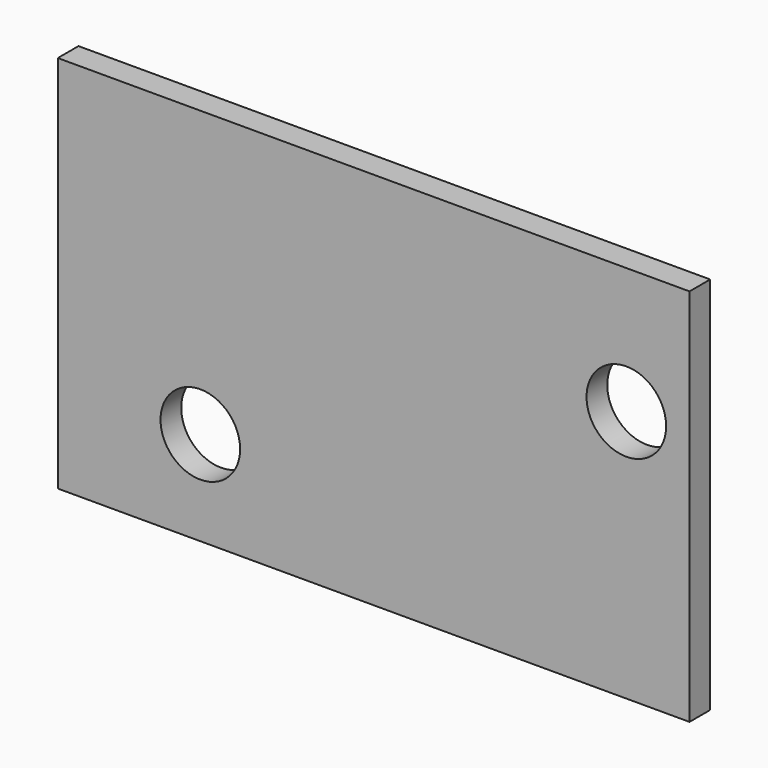
from build123d import *

# Parameters (mm, degrees)
F0_W     = 31.75
F0_H     = 19.05
F0_R     = 2.00025
F1_DEPTH = 1.3


with BuildPart() as f1:
    # F0 (on Front) → F1 (new body)
    with BuildSketch(Plane.XZ):
        with Locations((8.7122, 4.8006)):
            Rectangle(F0_W, F0_H)
        Circle(F0_R, mode=Mode.SUBTRACT)
        with Locations((21.4122, 7.9756)):
            Circle(F0_R, mode=Mode.SUBTRACT)
    extrude(amount=F1_DEPTH)


solid = f1.part
